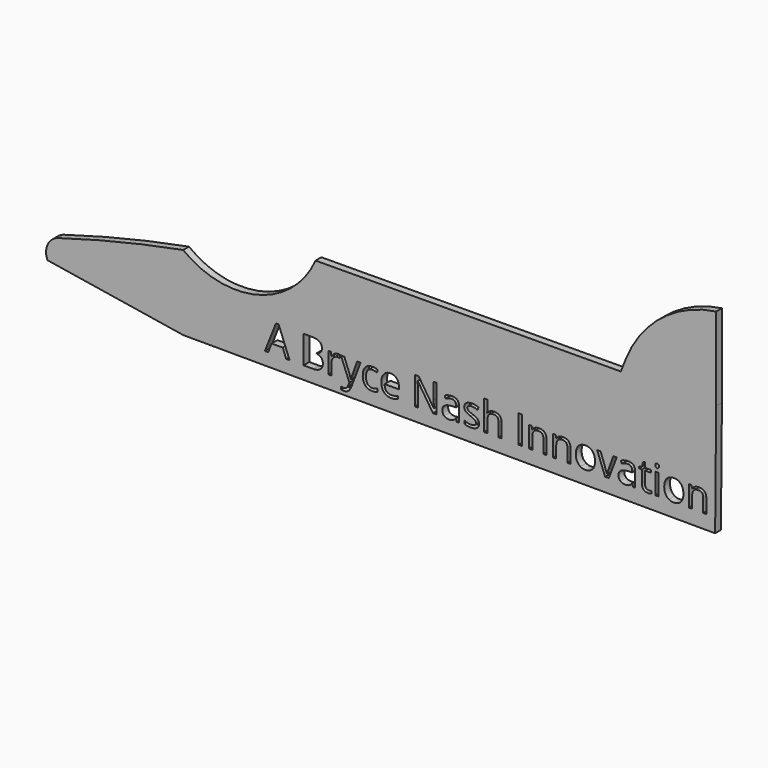
from build123d import *

# Parameters (mm, degrees)
F0_W     = 2.8366045801
F0_H     = 24.4076202001
F0_W_2   = 2.7725005217
F0_H_2   = 18.2963666416
F1_DEPTH = 6.35


with BuildPart() as f1:
    # F0 (on Front) → F1 (new body)
    with BuildSketch(Plane.XZ):
        with BuildLine():
            Line((180.0227405083, 31.0129529744), (-87.5757342338, 29.5789109841))
            ThreePointArc((-87.5757342338, 29.5789109841), (-138.4252668348, -13.4064172397), (-203.6455197096, 0))
            ThreePointArc((-203.6455197096, 0), (-258.7915521871, -11.7846253078), (-313.2484719457, -26.4272405821))
            ThreePointArc((-313.2484719457, -26.4272405821), (-322.4788401936, -34.4043664095), (-322.6031984209, -46.6034962755))
            Line((-322.6031984209, -46.6034962755), (-203.6455197096, -65.6573438842))
            ThreePointArc((-203.6455197096, -65.6573438842), (-196.7124836438, -65.7307053259), (-189.7791386651, -65.6975632277))
            Line((-189.7791386651, -65.6975632277), (262.7149983941, -67.0100193826))
            Line((262.7149983941, -67.0100193826), (263.592354282, 31.4607968397))
            Line((263.592354282, 31.4607968397), (263.592354282, 104.4399806174))
            ThreePointArc((263.592354282, 104.4399806174), (215.5247725804, 83.7735138846), (184.2930902679, 41.7952185669))
            Line((184.2930902679, 41.7952185669), (180.0227405083, 31.0129529744))
        make_face()
        with BuildLine():
            Line((-57.9540705708, -54.8187615086), (-65.3367212857, -36.4208967747))
            Line((-65.3367212857, -36.4208967747), (-62.3612245793, -36.4208967747))
            Line((-62.3612245793, -36.4208967747), (-58.3547209352, -46.8538322641))
            add(Edge.make_bspline(
                [(-58.3547209352, -46.8538322641), (-57.0405877399, -50.4276335147), (-56.7200674484, -52.0142089577)],
                knots=[0, 0, 0, 1, 1, 1], degree=2))
            Line((-56.7200674484, -52.0142089577), (-56.5865173269, -52.0142089577))
            add(Edge.make_bspline(
                [(-56.5865173269, -52.0142089577), (-56.3728371325, -51.1594881803), (-55.6783765009, -49.0974743048)],
                knots=[0, 0, 0, 1, 1, 1], degree=2))
            add(Edge.make_bspline(
                [(-55.6783765009, -49.0974743048), (-54.9839158692, -47.0354604293), (-51.1430143757, -36.4208967747)],
                knots=[0, 0, 0, 1, 1, 1], degree=2))
            Line((-51.1430143757, -36.4208967747), (-48.1728596742, -36.4208967747))
            Line((-48.1728596742, -36.4208967747), (-56.0362908264, -57.2547157243))
            add(Edge.make_bspline(
                [(-56.0362908264, -57.2547157243), (-57.2061898905, -60.3423945327), (-58.7660553093, -61.637830711)],
                knots=[0, 0, 0, 1, 1, 1], degree=2))
            add(Edge.make_bspline(
                [(-58.7660553093, -61.637830711), (-60.3259207281, -62.9332668892), (-62.5962727931, -62.9332668892)],
                knots=[0, 0, 0, 1, 1, 1], degree=2))
            add(Edge.make_bspline(
                [(-62.5962727931, -62.9332668892), (-63.8676699495, -62.9332668892), (-65.1016730719, -62.6447986269)],
                knots=[0, 0, 0, 1, 1, 1], degree=2))
            Line((-65.1016730719, -62.6447986269), (-65.1016730719, -60.4278666104))
            add(Edge.make_bspline(
                [(-65.1016730719, -60.4278666104), (-64.1828482362, -60.6255207902), (-63.0503432061, -60.6255207902)],
                knots=[0, 0, 0, 1, 1, 1], degree=2))
            add(Edge.make_bspline(
                [(-63.0503432061, -60.6255207902), (-60.1923706066, -60.6255207902), (-58.9743934988, -57.4203178749)],
                knots=[0, 0, 0, 1, 1, 1], degree=2))
            Line((-58.9743934988, -57.4203178749), (-57.9540705708, -54.8187615086))
        make_face(mode=Mode.SUBTRACT)
        Polygon((-110.364480241, -54.7172634163), (-113.3025829133, -54.7172634163), (-116.342183678, -46.9553303564), (-126.1233945746, -46.9553303564), (-129.1256013052, -54.7172634163), (-131.9995999193, -54.7172634163), (-122.3519391442, -30.2081451239), (-119.9640629723, -30.2081451239), align=None, mode=Mode.SUBTRACT)
        with BuildLine():
            Line((-98.1259471093, -54.7172634163), (-98.1259471093, -30.3096432162))
            Line((-98.1259471093, -30.3096432162), (-91.2294188365, -30.3096432162))
            add(Edge.make_bspline(
                [(-91.2294188365, -30.3096432162), (-86.3735364199, -30.3096432162), (-84.2020114447, -31.7626685378)],
                knots=[0, 0, 0, 1, 1, 1], degree=2))
            add(Edge.make_bspline(
                [(-84.2020114447, -31.7626685378), (-82.0304864696, -33.2156938594), (-82.0304864696, -36.3514507116)],
                knots=[0, 0, 0, 1, 1, 1], degree=2))
            add(Edge.make_bspline(
                [(-82.0304864696, -36.3514507116), (-82.0304864696, -38.5256466891), (-83.2404505701, -39.9359359719)],
                knots=[0, 0, 0, 1, 1, 1], degree=2))
            add(Edge.make_bspline(
                [(-83.2404505701, -39.9359359719), (-84.4504146707, -41.3462252546), (-86.7741867843, -41.7629016336)],
                knots=[0, 0, 0, 1, 1, 1], degree=2))
            Line((-86.7741867843, -41.7629016336), (-86.7741867843, -41.9285037842))
            add(Edge.make_bspline(
                [(-86.7741867843, -41.9285037842), (-81.2131597262, -42.8793806491), (-81.2131597262, -47.7726570998)],
                knots=[0, 0, 0, 1, 1, 1], degree=2))
            add(Edge.make_bspline(
                [(-81.2131597262, -47.7726570998), (-81.2131597262, -51.0419640734), (-83.4247497378, -52.8796137449)],
                knots=[0, 0, 0, 1, 1, 1], degree=2))
            add(Edge.make_bspline(
                [(-83.4247497378, -52.8796137449), (-85.6363397493, -54.7172634163), (-89.6107913643, -54.7172634163)],
                knots=[0, 0, 0, 1, 1, 1], degree=2))
            Line((-89.6107913643, -54.7172634163), (-98.1259471093, -54.7172634163))
        make_face(mode=Mode.SUBTRACT)
        with BuildLine():
            add(Edge.make_bspline(
                [(-71.1969006159, -37.0539243505), (-69.7599013088, -36.0843504686), (-68.0397757443, -36.0843504686)],
                knots=[0, 0, 0, 1, 1, 1], degree=2))
            add(Edge.make_bspline(
                [(-68.0397757443, -36.0843504686), (-66.8217986365, -36.0843504686), (-65.854895757, -36.2873466533)],
                knots=[0, 0, 0, 1, 1, 1], degree=2))
            Line((-65.854895757, -36.2873466533), (-66.2395201068, -38.8568509904))
            add(Edge.make_bspline(
                [(-66.2395201068, -38.8568509904), (-67.3720251369, -38.605776762), (-68.2427719289, -38.605776762)],
                knots=[0, 0, 0, 1, 1, 1], degree=2))
            add(Edge.make_bspline(
                [(-68.2427719289, -38.605776762), (-70.4650459502, -38.605776762), (-72.0409373836, -40.4087034019)],
                knots=[0, 0, 0, 1, 1, 1], degree=2))
            add(Edge.make_bspline(
                [(-72.0409373836, -40.4087034019), (-73.6168288169, -42.2116300417), (-73.6168288169, -44.8986584857)],
                knots=[0, 0, 0, 1, 1, 1], degree=2))
            Line((-73.6168288169, -44.8986584857), (-73.6168288169, -54.7172634163))
            Line((-73.6168288169, -54.7172634163), (-76.3893293387, -54.7172634163))
            Line((-76.3893293387, -54.7172634163), (-76.3893293387, -36.4208967747))
            Line((-76.3893293387, -36.4208967747), (-74.1029512591, -36.4208967747))
            Line((-74.1029512591, -36.4208967747), (-73.7824309675, -39.8077278553))
            Line((-73.7824309675, -39.8077278553), (-73.6488808461, -39.8077278553))
            add(Edge.make_bspline(
                [(-73.6488808461, -39.8077278553), (-72.6338999229, -38.0234982324), (-71.1969006159, -37.0539243505)],
                knots=[0, 0, 0, 1, 1, 1], degree=2))
        make_face(mode=Mode.SUBTRACT)
        with BuildLine():
            add(Edge.make_bspline(
                [(-33.268666118, -54.0975908527), (-35.1009737846, -55.0538097224), (-37.8895003209, -55.0538097224)],
                knots=[0, 0, 0, 1, 1, 1], degree=2))
            add(Edge.make_bspline(
                [(-37.8895003209, -55.0538097224), (-41.8639519359, -55.0538097224), (-44.0434899183, -52.6071714971)],
                knots=[0, 0, 0, 1, 1, 1], degree=2))
            add(Edge.make_bspline(
                [(-44.0434899183, -52.6071714971), (-46.2230279007, -50.1605332717), (-46.2230279007, -45.6839332)],
                knots=[0, 0, 0, 1, 1, 1], degree=2))
            add(Edge.make_bspline(
                [(-46.2230279007, -45.6839332), (-46.2230279007, -41.0951510262), (-44.0087668867, -38.5897507474)],
                knots=[0, 0, 0, 1, 1, 1], degree=2))
            add(Edge.make_bspline(
                [(-44.0087668867, -38.5897507474), (-41.7945058727, -36.0843504686), (-37.7078721557, -36.0843504686)],
                knots=[0, 0, 0, 1, 1, 1], degree=2))
            add(Edge.make_bspline(
                [(-37.7078721557, -36.0843504686), (-36.3883969556, -36.0843504686), (-35.0689217554, -36.3701477286)],
                knots=[0, 0, 0, 1, 1, 1], degree=2))
            add(Edge.make_bspline(
                [(-35.0689217554, -36.3701477286), (-33.7494465553, -36.6559449885), (-33.0015658751, -37.0405693384)],
                knots=[0, 0, 0, 1, 1, 1], degree=2))
            Line((-33.0015658751, -37.0405693384), (-33.8509446476, -39.3910514763))
            add(Edge.make_bspline(
                [(-33.8509446476, -39.3910514763), (-34.7697694833, -39.022453141), (-35.8541964697, -38.7820629224)],
                knots=[0, 0, 0, 1, 1, 1], degree=2))
            add(Edge.make_bspline(
                [(-35.8541964697, -38.7820629224), (-36.938623456, -38.5416727037), (-37.771976214, -38.5416727037)],
                knots=[0, 0, 0, 1, 1, 1], degree=2))
            add(Edge.make_bspline(
                [(-37.771976214, -38.5416727037), (-43.3490292867, -38.5416727037), (-43.3490292867, -45.6518811708)],
                knots=[0, 0, 0, 1, 1, 1], degree=2))
            add(Edge.make_bspline(
                [(-43.3490292867, -45.6518811708), (-43.3490292867, -49.0226862368), (-41.9894890501, -50.8256128766)],
                knots=[0, 0, 0, 1, 1, 1], degree=2))
            add(Edge.make_bspline(
                [(-41.9894890501, -50.8256128766), (-40.6299488135, -52.6285395165), (-37.9589463841, -52.6285395165)],
                knots=[0, 0, 0, 1, 1, 1], degree=2))
            add(Edge.make_bspline(
                [(-37.9589463841, -52.6285395165), (-35.6725683045, -52.6285395165), (-33.268666118, -51.6456106225)],
                knots=[0, 0, 0, 1, 1, 1], degree=2))
            Line((-33.268666118, -51.6456106225), (-33.268666118, -54.0975908527))
        make_face(mode=Mode.SUBTRACT)
        with BuildLine():
            Line((38.223384908, -54.7172634163), (36.1667130374, -54.7172634163))
            Line((36.1667130374, -54.7172634163), (35.6164865369, -52.1103650452))
            Line((35.6164865369, -52.1103650452), (35.4829364154, -52.1103650452))
            add(Edge.make_bspline(
                [(35.4829364154, -52.1103650452), (34.1153831716, -53.8304906097), (32.755842935, -54.4421501661)],
                knots=[0, 0, 0, 1, 1, 1], degree=2))
            add(Edge.make_bspline(
                [(32.755842935, -54.4421501661), (31.3963026984, -55.0538097224), (29.3556568423, -55.0538097224)],
                knots=[0, 0, 0, 1, 1, 1], degree=2))
            add(Edge.make_bspline(
                [(29.3556568423, -55.0538097224), (26.6365763692, -55.0538097224), (25.092736965, -53.6488624445)],
                knots=[0, 0, 0, 1, 1, 1], degree=2))
            add(Edge.make_bspline(
                [(25.092736965, -53.6488624445), (23.5488975608, -52.2439151667), (23.5488975608, -49.658384815)],
                knots=[0, 0, 0, 1, 1, 1], degree=2))
            add(Edge.make_bspline(
                [(23.5488975608, -49.658384815), (23.5488975608, -44.1187257764), (32.4112836216, -43.8516255334)],
                knots=[0, 0, 0, 1, 1, 1], degree=2))
            Line((32.4112836216, -43.8516255334), (35.5149884446, -43.7501274411))
            Line((35.5149884446, -43.7501274411), (35.5149884446, -42.6122804062))
            add(Edge.make_bspline(
                [(35.5149884446, -42.6122804062), (35.5149884446, -40.459452448), (34.590821604, -39.4337875151)],
                knots=[0, 0, 0, 1, 1, 1], degree=2))
            add(Edge.make_bspline(
                [(34.590821604, -39.4337875151), (33.6666547634, -38.4081225822), (31.6260089073, -38.4081225822)],
                knots=[0, 0, 0, 1, 1, 1], degree=2))
            add(Edge.make_bspline(
                [(31.6260089073, -38.4081225822), (29.3396308277, -38.4081225822), (26.454948204, -39.8077278553)],
                knots=[0, 0, 0, 1, 1, 1], degree=2))
            Line((26.454948204, -39.8077278553), (25.6002274266, -37.6869519263))
            add(Edge.make_bspline(
                [(25.6002274266, -37.6869519263), (26.9517546558, -36.9550972606), (28.5623691208, -36.5384208816)],
                knots=[0, 0, 0, 1, 1, 1], degree=2))
            add(Edge.make_bspline(
                [(28.5623691208, -36.5384208816), (30.1729835857, -36.1217445026), (31.7969530628, -36.1217445026)],
                knots=[0, 0, 0, 1, 1, 1], degree=2))
            add(Edge.make_bspline(
                [(31.7969530628, -36.1217445026), (35.0662600364, -36.1217445026), (36.6448224722, -37.5720988218)],
                knots=[0, 0, 0, 1, 1, 1], degree=2))
            add(Edge.make_bspline(
                [(36.6448224722, -37.5720988218), (38.223384908, -39.022453141), (38.223384908, -42.2276560563)],
                knots=[0, 0, 0, 1, 1, 1], degree=2))
            Line((38.223384908, -42.2276560563), (38.223384908, -54.7172634163))
        make_face(mode=Mode.SUBTRACT)
        with BuildLine():
            add(Edge.make_bspline(
                [(-18.0332682606, -54.7760254698), (-19.342059451, -55.0538097224), (-21.195735137, -55.0538097224)],
                knots=[0, 0, 0, 1, 1, 1], degree=2))
            add(Edge.make_bspline(
                [(-21.195735137, -55.0538097224), (-25.2503168249, -55.0538097224), (-27.5981279603, -52.5804614728)],
                knots=[0, 0, 0, 1, 1, 1], degree=2))
            add(Edge.make_bspline(
                [(-27.5981279603, -52.5804614728), (-29.9459390958, -50.1071132231), (-29.9459390958, -45.721327234)],
                knots=[0, 0, 0, 1, 1, 1], degree=2))
            add(Edge.make_bspline(
                [(-29.9459390958, -45.721327234), (-29.9459390958, -41.292805206), (-27.7664011134, -38.6885778373)],
                knots=[0, 0, 0, 1, 1, 1], degree=2))
            add(Edge.make_bspline(
                [(-27.7664011134, -38.6885778373), (-25.586863131, -36.0843504686), (-21.9115637881, -36.0843504686)],
                knots=[0, 0, 0, 1, 1, 1], degree=2))
            add(Edge.make_bspline(
                [(-21.9115637881, -36.0843504686), (-18.4766546638, -36.0843504686), (-16.4734028418, -38.3466895264)],
                knots=[0, 0, 0, 1, 1, 1], degree=2))
            add(Edge.make_bspline(
                [(-16.4734028418, -38.3466895264), (-14.4701510197, -40.6090285841), (-14.4701510197, -44.3163799561)],
                knots=[0, 0, 0, 1, 1, 1], degree=2))
            Line((-14.4701510197, -44.3163799561), (-14.4701510197, -46.0685575498))
            Line((-14.4701510197, -46.0685575498), (-27.0719404817, -46.0685575498))
            add(Edge.make_bspline(
                [(-27.0719404817, -46.0685575498), (-26.986468404, -49.2897864797), (-25.4426289998, -50.9591629981)],
                knots=[0, 0, 0, 1, 1, 1], degree=2))
            add(Edge.make_bspline(
                [(-25.4426289998, -50.9591629981), (-23.8987895956, -52.6285395165), (-21.0942370447, -52.6285395165)],
                knots=[0, 0, 0, 1, 1, 1], degree=2))
            add(Edge.make_bspline(
                [(-21.0942370447, -52.6285395165), (-18.1401083577, -52.6285395165), (-15.255425734, -51.3945363941)],
                knots=[0, 0, 0, 1, 1, 1], degree=2))
            Line((-15.255425734, -51.3945363941), (-15.255425734, -53.8678846438))
            add(Edge.make_bspline(
                [(-15.255425734, -53.8678846438), (-16.7244770701, -54.4982412171), (-18.0332682606, -54.7760254698)],
                knots=[0, 0, 0, 1, 1, 1], degree=2))
        make_face(mode=Mode.SUBTRACT)
        with BuildLine():
            Line((18.6235690809, -30.3096432162), (18.6235690809, -54.7172634163))
            Line((18.6235690809, -54.7172634163), (15.3863141364, -54.7172634163))
            Line((15.3863141364, -54.7172634163), (2.0473280039, -34.2360167875))
            Line((2.0473280039, -34.2360167875), (1.9137778824, -34.2360167875))
            add(Edge.make_bspline(
                [(1.9137778824, -34.2360167875), (2.1808781253, -37.8418700672), (2.1808781253, -40.8440767979)],
                knots=[0, 0, 0, 1, 1, 1], degree=2))
            Line((2.1808781253, -40.8440767979), (2.1808781253, -54.7172634163))
            Line((2.1808781253, -54.7172634163), (-0.4420462604, -54.7172634163))
            Line((-0.4420462604, -54.7172634163), (-0.4420462604, -30.3096432162))
            Line((-0.4420462604, -30.3096432162), (2.763156655, -30.3096432162))
            Line((2.763156655, -30.3096432162), (16.0700907584, -50.7107597722))
            Line((16.0700907584, -50.7107597722), (16.2036408798, -50.7107597722))
            add(Edge.make_bspline(
                [(16.2036408798, -50.7107597722), (16.1715888507, -50.262031364), (16.0540647438, -47.8153931387)],
                knots=[0, 0, 0, 1, 1, 1], degree=2))
            add(Edge.make_bspline(
                [(16.0540647438, -47.8153931387), (15.9365406369, -45.3687549133), (15.968592666, -44.3163799561)],
                knots=[0, 0, 0, 1, 1, 1], degree=2))
            Line((15.968592666, -44.3163799561), (15.968592666, -30.3096432162))
            Line((15.968592666, -30.3096432162), (18.6235690809, -30.3096432162))
        make_face(mode=Mode.SUBTRACT)
        with BuildLine():
            add(Edge.make_bspline(
                [(54.5859457907, -46.704256128), (55.7291348305, -47.9062072213), (55.7291348305, -49.7278308781)],
                knots=[0, 0, 0, 1, 1, 1], degree=2))
            add(Edge.make_bspline(
                [(55.7291348305, -49.7278308781), (55.7291348305, -52.2813092007), (53.8273811007, -53.6675594615)],
                knots=[0, 0, 0, 1, 1, 1], degree=2))
            add(Edge.make_bspline(
                [(53.8273811007, -53.6675594615), (51.925627371, -55.0538097224), (48.4853762419, -55.0538097224)],
                knots=[0, 0, 0, 1, 1, 1], degree=2))
            add(Edge.make_bspline(
                [(48.4853762419, -55.0538097224), (44.847470933, -55.0538097224), (42.8121670818, -53.8999366729)],
                knots=[0, 0, 0, 1, 1, 1], degree=2))
            Line((42.8121670818, -53.8999366729), (42.8121670818, -51.3304323358))
            add(Edge.make_bspline(
                [(42.8121670818, -51.3304323358), (44.1316422819, -51.9981829432), (45.6407586545, -52.3801362906)],
                knots=[0, 0, 0, 1, 1, 1], degree=2))
            add(Edge.make_bspline(
                [(45.6407586545, -52.3801362906), (47.1498750272, -52.762089638), (48.554822305, -52.762089638)],
                knots=[0, 0, 0, 1, 1, 1], degree=2))
            add(Edge.make_bspline(
                [(48.554822305, -52.762089638), (50.7236762777, -52.762089638), (51.8909043394, -52.0703000088)],
                knots=[0, 0, 0, 1, 1, 1], degree=2))
            add(Edge.make_bspline(
                [(51.8909043394, -52.0703000088), (53.0581324011, -51.3785103795), (53.0581324011, -49.9575370871)],
                knots=[0, 0, 0, 1, 1, 1], degree=2))
            add(Edge.make_bspline(
                [(53.0581324011, -49.9575370871), (53.0581324011, -48.8891361153), (52.1339655605, -48.1305714253)],
                knots=[0, 0, 0, 1, 1, 1], degree=2))
            add(Edge.make_bspline(
                [(52.1339655605, -48.1305714253), (51.2097987199, -47.3720067354), (48.517428271, -46.3356577928)],
                knots=[0, 0, 0, 1, 1, 1], degree=2))
            add(Edge.make_bspline(
                [(48.517428271, -46.3356577928), (45.9639499485, -45.3847809279), (44.8875359694, -44.6742942817)],
                knots=[0, 0, 0, 1, 1, 1], degree=2))
            add(Edge.make_bspline(
                [(44.8875359694, -44.6742942817), (43.8111219904, -43.9638076354), (43.2849345118, -43.0636798167)],
                knots=[0, 0, 0, 1, 1, 1], degree=2))
            add(Edge.make_bspline(
                [(43.2849345118, -43.0636798167), (42.7587470332, -42.163551998), (42.7587470332, -40.913522861)],
                knots=[0, 0, 0, 1, 1, 1], degree=2))
            add(Edge.make_bspline(
                [(42.7587470332, -40.913522861), (42.7587470332, -38.6752228252), (44.5803706901, -37.3797866469)],
                knots=[0, 0, 0, 1, 1, 1], degree=2))
            add(Edge.make_bspline(
                [(44.5803706901, -37.3797866469), (46.4019943469, -36.0843504686), (49.5698032282, -36.0843504686)],
                knots=[0, 0, 0, 1, 1, 1], degree=2))
            add(Edge.make_bspline(
                [(49.5698032282, -36.0843504686), (52.5239319152, -36.0843504686), (55.3498524855, -37.2863015619)],
                knots=[0, 0, 0, 1, 1, 1], degree=2))
            Line((55.3498524855, -37.2863015619), (54.3615815866, -39.5406276123))
            add(Edge.make_bspline(
                [(54.3615815866, -39.5406276123), (51.6104490843, -38.4081225822), (49.3721490484, -38.4081225822)],
                knots=[0, 0, 0, 1, 1, 1], degree=2))
            add(Edge.make_bspline(
                [(49.3721490484, -38.4081225822), (47.4009492555, -38.4081225822), (46.3993233445, -39.0251241434)],
                knots=[0, 0, 0, 1, 1, 1], degree=2))
            add(Edge.make_bspline(
                [(46.3993233445, -39.0251241434), (45.3976974335, -39.6421257046), (45.3976974335, -40.726552691)],
                knots=[0, 0, 0, 1, 1, 1], degree=2))
            add(Edge.make_bspline(
                [(45.3976974335, -40.726552691), (45.3976974335, -41.4637493615), (45.774308776, -41.9792528304)],
                knots=[0, 0, 0, 1, 1, 1], degree=2))
            add(Edge.make_bspline(
                [(45.774308776, -41.9792528304), (46.1509201186, -42.4947562993), (46.9842728765, -42.9621817244)],
                knots=[0, 0, 0, 1, 1, 1], degree=2))
            add(Edge.make_bspline(
                [(46.9842728765, -42.9621817244), (47.8176256345, -43.4296071496), (50.1894757918, -44.3163799561)],
                knots=[0, 0, 0, 1, 1, 1], degree=2))
            add(Edge.make_bspline(
                [(50.1894757918, -44.3163799561), (53.4427567509, -45.5023050348), (54.5859457907, -46.704256128)],
                knots=[0, 0, 0, 1, 1, 1], degree=2))
        make_face(mode=Mode.SUBTRACT)
        with BuildLine():
            Line((75.5319468422, -54.7172634163), (72.7594463205, -54.7172634163))
            Line((72.7594463205, -54.7172634163), (72.7594463205, -42.8793806491))
            add(Edge.make_bspline(
                [(72.7594463205, -42.8793806491), (72.7594463205, -40.6464226181), (71.7417943949, -39.5432986147)],
                knots=[0, 0, 0, 1, 1, 1], degree=2))
            add(Edge.make_bspline(
                [(71.7417943949, -39.5432986147), (70.7241424693, -38.4401746114), (68.5499464917, -38.4401746114)],
                knots=[0, 0, 0, 1, 1, 1], degree=2))
            add(Edge.make_bspline(
                [(68.5499464917, -38.4401746114), (65.6652638679, -38.4401746114), (64.3377756605, -40.0107240399)],
                knots=[0, 0, 0, 1, 1, 1], degree=2))
            add(Edge.make_bspline(
                [(64.3377756605, -40.0107240399), (63.0102874531, -41.5812734684), (63.0102874531, -45.1497327141)],
                knots=[0, 0, 0, 1, 1, 1], degree=2))
            Line((63.0102874531, -45.1497327141), (63.0102874531, -54.7172634163))
            Line((63.0102874531, -54.7172634163), (60.2377869314, -54.7172634163))
            Line((60.2377869314, -54.7172634163), (60.2377869314, -28.7390937877))
            Line((60.2377869314, -28.7390937877), (63.0102874531, -28.7390937877))
            Line((63.0102874531, -28.7390937877), (63.0102874531, -36.6025249399))
            add(Edge.make_bspline(
                [(63.0102874531, -36.6025249399), (63.0102874531, -38.0234982324), (62.8767373316, -38.9583490827)],
                knots=[0, 0, 0, 1, 1, 1], degree=2))
            Line((62.8767373316, -38.9583490827), (63.0423394822, -38.9583490827))
            add(Edge.make_bspline(
                [(63.0423394822, -38.9583490827), (63.8596662257, -37.6388738826), (65.3714536007, -36.8803091926)],
                knots=[0, 0, 0, 1, 1, 1], degree=2))
            add(Edge.make_bspline(
                [(65.3714536007, -36.8803091926), (66.8832409758, -36.1217445026), (68.8170467347, -36.1217445026)],
                knots=[0, 0, 0, 1, 1, 1], degree=2))
            add(Edge.make_bspline(
                [(68.8170467347, -36.1217445026), (72.171825786, -36.1217445026), (73.8518863141, -37.716332953)],
                knots=[0, 0, 0, 1, 1, 1], degree=2))
            add(Edge.make_bspline(
                [(73.8518863141, -37.716332953), (75.5319468422, -39.3109214034), (75.5319468422, -42.7832245616)],
                knots=[0, 0, 0, 1, 1, 1], degree=2))
            Line((75.5319468422, -42.7832245616), (75.5319468422, -54.7172634163))
        make_face(mode=Mode.SUBTRACT)
        with Locations((91.9399147662, -42.5134533163)):
            Rectangle(F0_W, F0_H, mode=Mode.SUBTRACT)
        with BuildLine():
            Line((114.9292326763, -54.7172634163), (112.1567321545, -54.7172634163))
            Line((112.1567321545, -54.7172634163), (112.1567321545, -42.8793806491))
            add(Edge.make_bspline(
                [(112.1567321545, -42.8793806491), (112.1567321545, -40.6464226181), (111.1390802289, -39.5432986147)],
                knots=[0, 0, 0, 1, 1, 1], degree=2))
            add(Edge.make_bspline(
                [(111.1390802289, -39.5432986147), (110.1214283033, -38.4401746114), (107.9472323258, -38.4401746114)],
                knots=[0, 0, 0, 1, 1, 1], degree=2))
            add(Edge.make_bspline(
                [(107.9472323258, -38.4401746114), (105.0785757166, -38.4401746114), (103.7430745018, -39.9920270229)],
                knots=[0, 0, 0, 1, 1, 1], degree=2))
            add(Edge.make_bspline(
                [(103.7430745018, -39.9920270229), (102.4075732871, -41.5438794344), (102.4075732871, -45.117680685)],
                knots=[0, 0, 0, 1, 1, 1], degree=2))
            Line((102.4075732871, -45.117680685), (102.4075732871, -54.7172634163))
            Line((102.4075732871, -54.7172634163), (99.6350727654, -54.7172634163))
            Line((99.6350727654, -54.7172634163), (99.6350727654, -36.4208967747))
            Line((99.6350727654, -36.4208967747), (101.8893988158, -36.4208967747))
            Line((101.8893988158, -36.4208967747), (102.338127224, -38.9262970535))
            Line((102.338127224, -38.9262970535), (102.4716773454, -38.9262970535))
            add(Edge.make_bspline(
                [(102.4716773454, -38.9262970535), (103.3263981229, -37.5747698243), (104.8622245198, -36.8295601464)],
                knots=[0, 0, 0, 1, 1, 1], degree=2))
            add(Edge.make_bspline(
                [(104.8622245198, -36.8295601464), (106.3980509167, -36.0843504686), (108.2837786319, -36.0843504686)],
                knots=[0, 0, 0, 1, 1, 1], degree=2))
            add(Edge.make_bspline(
                [(108.2837786319, -36.0843504686), (111.5904796395, -36.0843504686), (113.2598561579, -37.678938919)],
                knots=[0, 0, 0, 1, 1, 1], degree=2))
            add(Edge.make_bspline(
                [(113.2598561579, -37.678938919), (114.9292326763, -39.2735273694), (114.9292326763, -42.7832245616)],
                knots=[0, 0, 0, 1, 1, 1], degree=2))
            Line((114.9292326763, -42.7832245616), (114.9292326763, -54.7172634163))
        make_face(mode=Mode.SUBTRACT)
        with BuildLine():
            Line((192.6874554017, -54.7172634163), (190.6307835311, -54.7172634163))
            Line((190.6307835311, -54.7172634163), (190.0805570306, -52.1103650452))
            Line((190.0805570306, -52.1103650452), (189.9470069091, -52.1103650452))
            add(Edge.make_bspline(
                [(189.9470069091, -52.1103650452), (188.5794536653, -53.8304906097), (187.2199134287, -54.4421501661)],
                knots=[0, 0, 0, 1, 1, 1], degree=2))
            add(Edge.make_bspline(
                [(187.2199134287, -54.4421501661), (185.8603731921, -55.0538097224), (183.819727336, -55.0538097224)],
                knots=[0, 0, 0, 1, 1, 1], degree=2))
            add(Edge.make_bspline(
                [(183.819727336, -55.0538097224), (181.1006468629, -55.0538097224), (179.5568074587, -53.6488624445)],
                knots=[0, 0, 0, 1, 1, 1], degree=2))
            add(Edge.make_bspline(
                [(179.5568074587, -53.6488624445), (178.0129680545, -52.2439151667), (178.0129680545, -49.658384815)],
                knots=[0, 0, 0, 1, 1, 1], degree=2))
            add(Edge.make_bspline(
                [(178.0129680545, -49.658384815), (178.0129680545, -44.1187257764), (186.8753541153, -43.8516255334)],
                knots=[0, 0, 0, 1, 1, 1], degree=2))
            Line((186.8753541153, -43.8516255334), (189.9790589383, -43.7501274411))
            Line((189.9790589383, -43.7501274411), (189.9790589383, -42.6122804062))
            add(Edge.make_bspline(
                [(189.9790589383, -42.6122804062), (189.9790589383, -40.459452448), (189.0548920977, -39.4337875151)],
                knots=[0, 0, 0, 1, 1, 1], degree=2))
            add(Edge.make_bspline(
                [(189.0548920977, -39.4337875151), (188.1307252571, -38.4081225822), (186.0900794011, -38.4081225822)],
                knots=[0, 0, 0, 1, 1, 1], degree=2))
            add(Edge.make_bspline(
                [(186.0900794011, -38.4081225822), (183.8037013215, -38.4081225822), (180.9190186977, -39.8077278553)],
                knots=[0, 0, 0, 1, 1, 1], degree=2))
            Line((180.9190186977, -39.8077278553), (180.0642979203, -37.6869519263))
            add(Edge.make_bspline(
                [(180.0642979203, -37.6869519263), (181.4158251496, -36.9550972606), (183.0264396145, -36.5384208816)],
                knots=[0, 0, 0, 1, 1, 1], degree=2))
            add(Edge.make_bspline(
                [(183.0264396145, -36.5384208816), (184.6370540794, -36.1217445026), (186.2610235565, -36.1217445026)],
                knots=[0, 0, 0, 1, 1, 1], degree=2))
            add(Edge.make_bspline(
                [(186.2610235565, -36.1217445026), (189.5303305302, -36.1217445026), (191.1088929659, -37.5720988218)],
                knots=[0, 0, 0, 1, 1, 1], degree=2))
            add(Edge.make_bspline(
                [(191.1088929659, -37.5720988218), (192.6874554017, -39.022453141), (192.6874554017, -42.2276560563)],
                knots=[0, 0, 0, 1, 1, 1], degree=2))
            Line((192.6874554017, -42.2276560563), (192.6874554017, -54.7172634163))
        make_face(mode=Mode.SUBTRACT)
        with BuildLine():
            Line((135.9126277619, -54.7172634163), (133.1401272401, -54.7172634163))
            Line((133.1401272401, -54.7172634163), (133.1401272401, -42.8793806491))
            add(Edge.make_bspline(
                [(133.1401272401, -42.8793806491), (133.1401272401, -40.6464226181), (132.1224753145, -39.5432986147)],
                knots=[0, 0, 0, 1, 1, 1], degree=2))
            add(Edge.make_bspline(
                [(132.1224753145, -39.5432986147), (131.1048233889, -38.4401746114), (128.9306274113, -38.4401746114)],
                knots=[0, 0, 0, 1, 1, 1], degree=2))
            add(Edge.make_bspline(
                [(128.9306274113, -38.4401746114), (126.0619708021, -38.4401746114), (124.7264695874, -39.9920270229)],
                knots=[0, 0, 0, 1, 1, 1], degree=2))
            add(Edge.make_bspline(
                [(124.7264695874, -39.9920270229), (123.3909683727, -41.5438794344), (123.3909683727, -45.117680685)],
                knots=[0, 0, 0, 1, 1, 1], degree=2))
            Line((123.3909683727, -45.117680685), (123.3909683727, -54.7172634163))
            Line((123.3909683727, -54.7172634163), (120.618467851, -54.7172634163))
            Line((120.618467851, -54.7172634163), (120.618467851, -36.4208967747))
            Line((120.618467851, -36.4208967747), (122.8727939014, -36.4208967747))
            Line((122.8727939014, -36.4208967747), (123.3215223095, -38.9262970535))
            Line((123.3215223095, -38.9262970535), (123.455072431, -38.9262970535))
            add(Edge.make_bspline(
                [(123.455072431, -38.9262970535), (124.3097932084, -37.5747698243), (125.8456196053, -36.8295601464)],
                knots=[0, 0, 0, 1, 1, 1], degree=2))
            add(Edge.make_bspline(
                [(125.8456196053, -36.8295601464), (127.3814460023, -36.0843504686), (129.2671737174, -36.0843504686)],
                knots=[0, 0, 0, 1, 1, 1], degree=2))
            add(Edge.make_bspline(
                [(129.2671737174, -36.0843504686), (132.5738747251, -36.0843504686), (134.2432512435, -37.678938919)],
                knots=[0, 0, 0, 1, 1, 1], degree=2))
            add(Edge.make_bspline(
                [(134.2432512435, -37.678938919), (135.9126277619, -39.2735273694), (135.9126277619, -42.7832245616)],
                knots=[0, 0, 0, 1, 1, 1], degree=2))
            Line((135.9126277619, -42.7832245616), (135.9126277619, -54.7172634163))
        make_face(mode=Mode.SUBTRACT)
        with BuildLine():
            add(Edge.make_bspline(
                [(155.1304902416, -38.6404997936), (157.3928292993, -41.1966491186), (157.3928292993, -45.5503830785)],
                knots=[0, 0, 0, 1, 1, 1], degree=2))
            add(Edge.make_bspline(
                [(157.3928292993, -45.5503830785), (157.3928292993, -50.0269831502), (155.1411742513, -52.5403964363)],
                knots=[0, 0, 0, 1, 1, 1], degree=2))
            add(Edge.make_bspline(
                [(155.1411742513, -52.5403964363), (152.8895192033, -55.0538097224), (148.9150675883, -55.0538097224)],
                knots=[0, 0, 0, 1, 1, 1], degree=2))
            add(Edge.make_bspline(
                [(148.9150675883, -55.0538097224), (146.4577453532, -55.0538097224), (144.5559916235, -53.8999366729)],
                knots=[0, 0, 0, 1, 1, 1], degree=2))
            add(Edge.make_bspline(
                [(144.5559916235, -53.8999366729), (142.6542378937, -52.7460636234), (141.6178889511, -50.5932356653)],
                knots=[0, 0, 0, 1, 1, 1], degree=2))
            add(Edge.make_bspline(
                [(141.6178889511, -50.5932356653), (140.5815400085, -48.4404077072), (140.5815400085, -45.5503830785)],
                knots=[0, 0, 0, 1, 1, 1], degree=2))
            add(Edge.make_bspline(
                [(140.5815400085, -45.5503830785), (140.5815400085, -41.0791250117), (142.8198400443, -38.5817377402)],
                knots=[0, 0, 0, 1, 1, 1], degree=2))
            add(Edge.make_bspline(
                [(142.8198400443, -38.5817377402), (145.0581400802, -36.0843504686), (149.0325916952, -36.0843504686)],
                knots=[0, 0, 0, 1, 1, 1], degree=2))
            add(Edge.make_bspline(
                [(149.0325916952, -36.0843504686), (152.8681511838, -36.0843504686), (155.1304902416, -38.6404997936)],
                knots=[0, 0, 0, 1, 1, 1], degree=2))
        make_face(mode=Mode.SUBTRACT)
        with BuildLine():
            Line((169.4978123095, -54.7172634163), (166.260557365, -54.7172634163))
            Line((166.260557365, -54.7172634163), (159.3159510485, -36.4208967747))
            Line((159.3159510485, -36.4208967747), (162.28610575, -36.4208967747))
            Line((162.28610575, -36.4208967747), (166.2285053358, -47.2705086431))
            add(Edge.make_bspline(
                [(166.2285053358, -47.2705086431), (167.5640065506, -51.0793581074), (167.7990547643, -52.2118631375)],
                knots=[0, 0, 0, 1, 1, 1], degree=2))
            Line((167.7990547643, -52.2118631375), (167.9326048858, -52.2118631375))
            add(Edge.make_bspline(
                [(167.9326048858, -52.2118631375), (168.114233051, -51.3304323358), (169.0918199402, -48.5499188068)],
                knots=[0, 0, 0, 1, 1, 1], degree=2))
            add(Edge.make_bspline(
                [(169.0918199402, -48.5499188068), (170.0694068294, -45.7694052777), (173.4722639244, -36.4208967747)],
                knots=[0, 0, 0, 1, 1, 1], degree=2))
            Line((173.4722639244, -36.4208967747), (176.442418626, -36.4208967747))
            Line((176.442418626, -36.4208967747), (169.4978123095, -54.7172634163))
        make_face(mode=Mode.SUBTRACT)
        with BuildLine():
            add(Edge.make_bspline(
                [(202.1481460068, -51.8779878338), (202.933420721, -52.762089638), (204.3009739649, -52.762089638)],
                knots=[0, 0, 0, 1, 1, 1], degree=2))
            add(Edge.make_bspline(
                [(204.3009739649, -52.762089638), (205.0381706354, -52.762089638), (205.7219472573, -52.6552495408)],
                knots=[0, 0, 0, 1, 1, 1], degree=2))
            add(Edge.make_bspline(
                [(205.7219472573, -52.6552495408), (206.4057238793, -52.5484094436), (206.8063742437, -52.4308853367)],
                knots=[0, 0, 0, 1, 1, 1], degree=2))
            Line((206.8063742437, -52.4308853367), (206.8063742437, -54.5516612657))
            add(Edge.make_bspline(
                [(206.8063742437, -54.5516612657), (206.3576458355, -54.76534146), (205.4815570387, -54.9095755912)],
                knots=[0, 0, 0, 1, 1, 1], degree=2))
            add(Edge.make_bspline(
                [(205.4815570387, -54.9095755912), (204.6054682418, -55.0538097224), (203.9003236005, -55.0538097224)],
                knots=[0, 0, 0, 1, 1, 1], degree=2))
            add(Edge.make_bspline(
                [(203.9003236005, -55.0538097224), (198.5957127756, -55.0538097224), (198.5957127756, -49.4607306352)],
                knots=[0, 0, 0, 1, 1, 1], degree=2))
            Line((198.5957127756, -49.4607306352), (198.5957127756, -38.5737247329))
            Line((198.5957127756, -38.5737247329), (195.9727883899, -38.5737247329))
            Line((195.9727883899, -38.5737247329), (195.9727883899, -37.2382235181))
            Line((195.9727883899, -37.2382235181), (198.5957127756, -36.0843504686))
            Line((198.5957127756, -36.0843504686), (199.7602698349, -32.1793449168))
            Line((199.7602698349, -32.1793449168), (201.3628712925, -32.1793449168))
            Line((201.3628712925, -32.1793449168), (201.3628712925, -36.4208967747))
            Line((201.3628712925, -36.4208967747), (206.6728241222, -36.4208967747))
            Line((206.6728241222, -36.4208967747), (206.6728241222, -38.5737247329))
            Line((206.6728241222, -38.5737247329), (201.3628712925, -38.5737247329))
            Line((201.3628712925, -38.5737247329), (201.3628712925, -49.3432065283))
            add(Edge.make_bspline(
                [(201.3628712925, -49.3432065283), (201.3628712925, -50.9938860297), (202.1481460068, -51.8779878338)],
                knots=[0, 0, 0, 1, 1, 1], degree=2))
        make_face(mode=Mode.SUBTRACT)
        with Locations((211.846555828, -45.5690800955)):
            Rectangle(F0_W_2, F0_H_2, mode=Mode.SUBTRACT)
        with BuildLine():
            add(Edge.make_bspline(
                [(232.6376387387, -38.6404997936), (234.8999777964, -41.1966491186), (234.8999777964, -45.5503830785)],
                knots=[0, 0, 0, 1, 1, 1], degree=2))
            add(Edge.make_bspline(
                [(234.8999777964, -45.5503830785), (234.8999777964, -50.0269831502), (232.6483227484, -52.5403964363)],
                knots=[0, 0, 0, 1, 1, 1], degree=2))
            add(Edge.make_bspline(
                [(232.6483227484, -52.5403964363), (230.3966677004, -55.0538097224), (226.4222160854, -55.0538097224)],
                knots=[0, 0, 0, 1, 1, 1], degree=2))
            add(Edge.make_bspline(
                [(226.4222160854, -55.0538097224), (223.9648938503, -55.0538097224), (222.0631401206, -53.8999366729)],
                knots=[0, 0, 0, 1, 1, 1], degree=2))
            add(Edge.make_bspline(
                [(222.0631401206, -53.8999366729), (220.1613863908, -52.7460636234), (219.1250374482, -50.5932356653)],
                knots=[0, 0, 0, 1, 1, 1], degree=2))
            add(Edge.make_bspline(
                [(219.1250374482, -50.5932356653), (218.0886885056, -48.4404077072), (218.0886885056, -45.5503830785)],
                knots=[0, 0, 0, 1, 1, 1], degree=2))
            add(Edge.make_bspline(
                [(218.0886885056, -45.5503830785), (218.0886885056, -41.0791250117), (220.3269885414, -38.5817377402)],
                knots=[0, 0, 0, 1, 1, 1], degree=2))
            add(Edge.make_bspline(
                [(220.3269885414, -38.5817377402), (222.5652885773, -36.0843504686), (226.5397401923, -36.0843504686)],
                knots=[0, 0, 0, 1, 1, 1], degree=2))
            add(Edge.make_bspline(
                [(226.5397401923, -36.0843504686), (230.3752996809, -36.0843504686), (232.6376387387, -38.6404997936)],
                knots=[0, 0, 0, 1, 1, 1], degree=2))
        make_face(mode=Mode.SUBTRACT)
        with BuildLine():
            Line((255.0553621288, -54.7172634163), (252.2828616071, -54.7172634163))
            Line((252.2828616071, -54.7172634163), (252.2828616071, -42.8793806491))
            add(Edge.make_bspline(
                [(252.2828616071, -42.8793806491), (252.2828616071, -40.6464226181), (251.2652096815, -39.5432986147)],
                knots=[0, 0, 0, 1, 1, 1], degree=2))
            add(Edge.make_bspline(
                [(251.2652096815, -39.5432986147), (250.2475577559, -38.4401746114), (248.0733617783, -38.4401746114)],
                knots=[0, 0, 0, 1, 1, 1], degree=2))
            add(Edge.make_bspline(
                [(248.0733617783, -38.4401746114), (245.2047051691, -38.4401746114), (243.8692039544, -39.9920270229)],
                knots=[0, 0, 0, 1, 1, 1], degree=2))
            add(Edge.make_bspline(
                [(243.8692039544, -39.9920270229), (242.5337027397, -41.5438794344), (242.5337027397, -45.117680685)],
                knots=[0, 0, 0, 1, 1, 1], degree=2))
            Line((242.5337027397, -45.117680685), (242.5337027397, -54.7172634163))
            Line((242.5337027397, -54.7172634163), (239.7612022179, -54.7172634163))
            Line((239.7612022179, -54.7172634163), (239.7612022179, -36.4208967747))
            Line((239.7612022179, -36.4208967747), (242.0155282684, -36.4208967747))
            Line((242.0155282684, -36.4208967747), (242.4642566765, -38.9262970535))
            Line((242.4642566765, -38.9262970535), (242.597806798, -38.9262970535))
            add(Edge.make_bspline(
                [(242.597806798, -38.9262970535), (243.4525275754, -37.5747698243), (244.9883539723, -36.8295601464)],
                knots=[0, 0, 0, 1, 1, 1], degree=2))
            add(Edge.make_bspline(
                [(244.9883539723, -36.8295601464), (246.5241803692, -36.0843504686), (248.4099080844, -36.0843504686)],
                knots=[0, 0, 0, 1, 1, 1], degree=2))
            add(Edge.make_bspline(
                [(248.4099080844, -36.0843504686), (251.7166090921, -36.0843504686), (253.3859856104, -37.678938919)],
                knots=[0, 0, 0, 1, 1, 1], degree=2))
            add(Edge.make_bspline(
                [(253.3859856104, -37.678938919), (255.0553621288, -39.2735273694), (255.0553621288, -42.7832245616)],
                knots=[0, 0, 0, 1, 1, 1], degree=2))
            Line((255.0553621288, -42.7832245616), (255.0553621288, -54.7172634163))
        make_face(mode=Mode.SUBTRACT)
        with BuildLine():
            add(Edge.make_bspline(
                [(210.6926827785, -32.8577795339), (210.2252573533, -32.398367116), (210.2252573533, -31.4635162657)],
                knots=[0, 0, 0, 1, 1, 1], degree=2))
            add(Edge.make_bspline(
                [(210.2252573533, -31.4635162657), (210.2252573533, -30.5126394009), (210.6926827785, -30.0692529976)],
                knots=[0, 0, 0, 1, 1, 1], degree=2))
            add(Edge.make_bspline(
                [(210.6926827785, -30.0692529976), (211.1601082036, -29.6258665943), (211.865252845, -29.6258665943)],
                knots=[0, 0, 0, 1, 1, 1], degree=2))
            add(Edge.make_bspline(
                [(211.865252845, -29.6258665943), (212.5330034524, -29.6258665943), (213.0164548921, -30.0772660049)],
                knots=[0, 0, 0, 1, 1, 1], degree=2))
            add(Edge.make_bspline(
                [(213.0164548921, -30.0772660049), (213.4999063318, -30.5286654154), (213.4999063318, -31.4635162657)],
                knots=[0, 0, 0, 1, 1, 1], degree=2))
            add(Edge.make_bspline(
                [(213.4999063318, -31.4635162657), (213.4999063318, -32.398367116), (213.0164548921, -32.8577795339)],
                knots=[0, 0, 0, 1, 1, 1], degree=2))
            add(Edge.make_bspline(
                [(213.0164548921, -32.8577795339), (212.5330034524, -33.3171919518), (211.865252845, -33.3171919518)],
                knots=[0, 0, 0, 1, 1, 1], degree=2))
            add(Edge.make_bspline(
                [(211.865252845, -33.3171919518), (211.1601082036, -33.3171919518), (210.6926827785, -32.8577795339)],
                knots=[0, 0, 0, 1, 1, 1], degree=2))
        make_face(mode=Mode.SUBTRACT)
    extrude(amount=F1_DEPTH)


solid = f1.part
